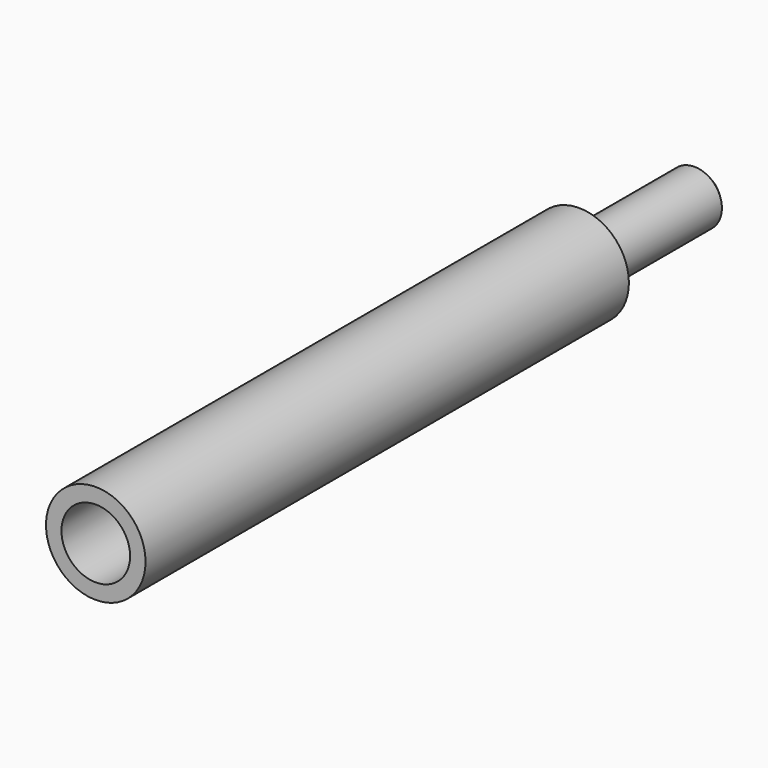
from build123d import *

# Parameters (mm, degrees)
F0_R     = 7.25
F1_DEPTH = 88
F2_R     = 4
F3_DEPTH = 22
F4_SIZE  = 1
F5_R     = 1.75
F6_DEPTH = 120
F7_R     = 5
F8_DEPTH = 78


with BuildPart() as f1:
    # F0 (on Front) → F1 (new body)
    with BuildSketch(Plane.XZ):
        Circle(F0_R)
    extrude(amount=F1_DEPTH)

    # F2 (on Front) → F3 (join)
    with BuildSketch(Plane.XZ):
        Circle(F2_R)
    extrude(amount=-F3_DEPTH)

    # F4
    f4_edges = [f1.edges().sort_by_distance(p)[0] for p in [
        (-4, 22, 0),
    ]]
    chamfer(f4_edges, length=F4_SIZE)

    # F5 (on face) → F6 (cut)
    with BuildSketch(Plane(origin=(0, 22, 0), x_dir=(-1, 0, 0), z_dir=(0, 1, 0))):
        Circle(F5_R)
    extrude(amount=-F6_DEPTH, mode=Mode.SUBTRACT)

    # F7 (on face) → F8 (cut)
    with BuildSketch(Plane.XZ.offset(88)):
        Circle(F7_R)
    extrude(amount=-F8_DEPTH, mode=Mode.SUBTRACT)


solid = f1.part
